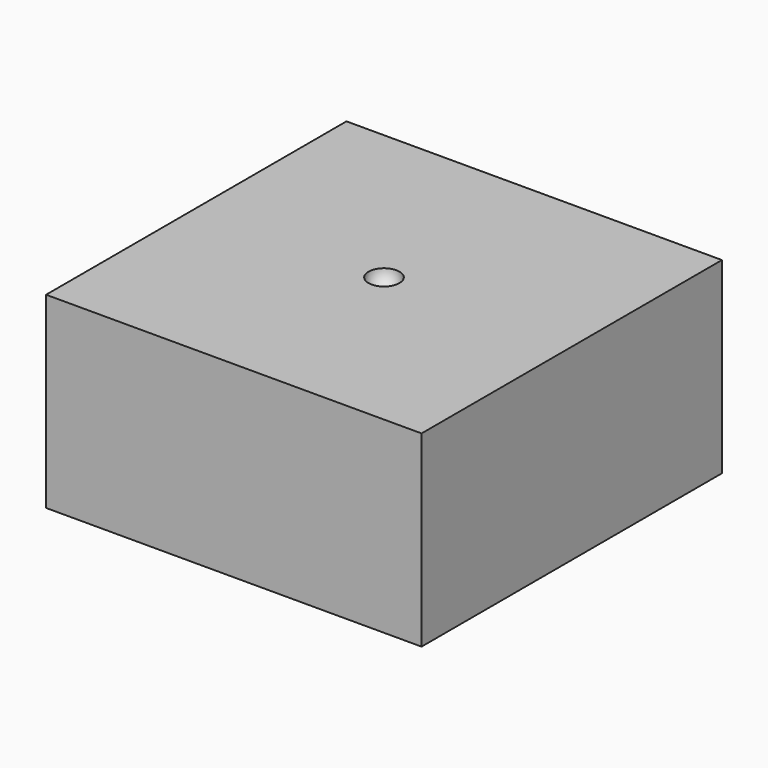
from build123d import *

# Parameters (mm, degrees)
F0_W     = 60
F0_H     = 60
F1_DEPTH = 30


with BuildPart() as f1:
    # F0 (on Top) → F1 (new body)
    with BuildSketch(Plane.XY):
        Rectangle(F0_W, F0_H)
    extrude(amount=F1_DEPTH)

    # F2 (on Front) → F3 (revolve, cut)
    with BuildSketch(Plane.XZ):
        with BuildLine():
            Line((0, 27.525), (0, 32.475))
            ThreePointArc((0, 32.475), (-2.475, 30), (0, 27.525))
        make_face()
    revolve(axis=Axis((0, 0, 30), (0, 0, -1)), mode=Mode.SUBTRACT)


solid = f1.part
